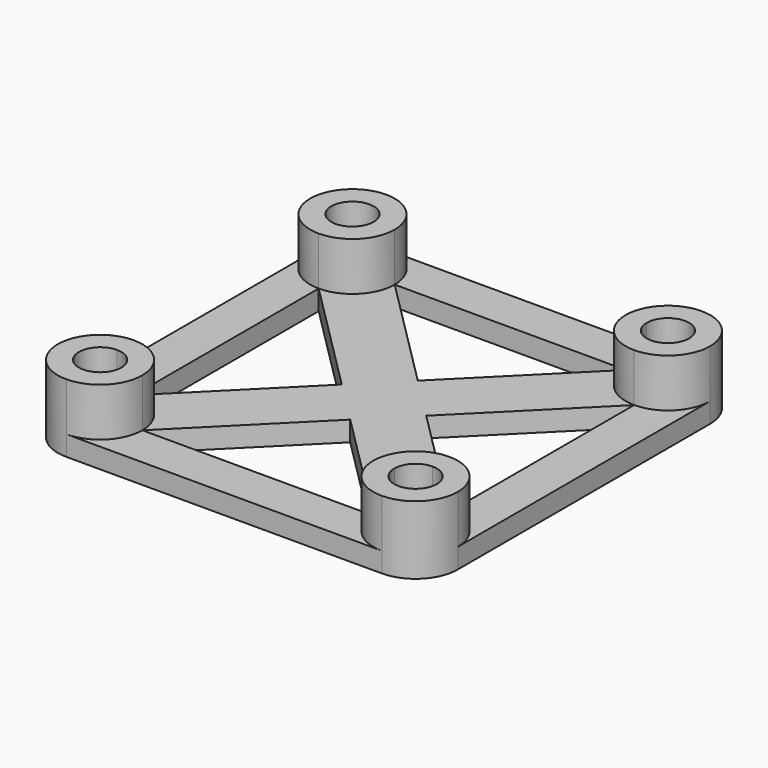
from build123d import *

# Parameters (mm, degrees)
F1_DEPTH = 6.5
F2_DEPTH = 1.9


with BuildPart() as f1:
    # F0 (on Top) → F1 (new body)
    with BuildSketch(Plane.XY):
        with BuildLine():
            Line((-8.899431151, 5.8993360586), (-10.899431151, 5.8993360586))
            ThreePointArc((-10.899431151, 5.8993360586), (-11.4896109869, 4.4745158946), (-12.914431151, 3.8843360586))
            Line((-12.914431151, 3.8843360586), (-12.914431151, 1.8843360586))
            ThreePointArc((-12.914431151, 1.8843360586), (-10.0753974245, 3.0603023322), (-8.899431151, 5.8993360586))
        make_face()
        with BuildLine():
            ThreePointArc((-12.914431151, 3.8843360586), (-14.3392513151, 7.3241562227), (-10.899431151, 5.8993360586))
            Line((-10.899431151, 5.8993360586), (-8.899431151, 5.8993360586))
            ThreePointArc((-8.899431151, 5.8993360586), (-10.0753974245, 8.7383697851), (-12.914431151, 9.9143360586))
            ThreePointArc((-12.914431151, 9.9143360586), (-15.7534648775, 8.7383697851), (-16.929431151, 5.8993360586))
            ThreePointArc((-16.929431151, 5.8993360586), (-15.7534648775, 3.0603023322), (-12.914431151, 1.8843360586))
            Line((-12.914431151, 1.8843360586), (-12.914431151, 3.8843360586))
        make_face()
    extrude(amount=F1_DEPTH)



with BuildPart() as f1b:
    # F0 (on Top) → F1, piece 2 (new body)
    with BuildSketch(Plane.XY):
        with BuildLine():
            ThreePointArc((17.085568849, 9.9143360586), (14.2465351225, 8.7383697851), (13.070568849, 5.8993360586))
            Line((13.070568849, 5.8993360586), (15.070568849, 5.8993360586))
            ThreePointArc((15.070568849, 5.8993360586), (17.085568849, 7.9143360586), (19.100568849, 5.8993360586))
            ThreePointArc((19.100568849, 5.8993360586), (18.5103890131, 4.4745158946), (17.085568849, 3.8843360586))
            Line((17.085568849, 3.8843360586), (17.085568849, 1.8843360586))
            ThreePointArc((17.085568849, 1.8843360586), (19.9246025755, 3.0603023322), (21.100568849, 5.8993360586))
            ThreePointArc((21.100568849, 5.8993360586), (19.9246025755, 8.7383697851), (17.085568849, 9.9143360586))
        make_face()
        with BuildLine():
            Line((15.070568849, 5.8993360586), (13.070568849, 5.8993360586))
            ThreePointArc((13.070568849, 5.8993360586), (14.2465351225, 3.0603023322), (17.085568849, 1.8843360586))
            Line((17.085568849, 1.8843360586), (17.085568849, 3.8843360586))
            ThreePointArc((17.085568849, 3.8843360586), (15.6607486849, 4.4745158946), (15.070568849, 5.8993360586))
        make_face()
    extrude(amount=F1_DEPTH)


with BuildPart() as f1c:
    # F0 (on Top) → F1, piece 3 (new body)
    with BuildSketch(Plane.XY):
        with BuildLine():
            ThreePointArc((21.100568849, -24.1006639414), (19.9246025755, -21.2616302149), (17.085568849, -20.0856639414))
            Line((17.085568849, -20.0856639414), (17.085568849, -22.0856639414))
            ThreePointArc((17.085568849, -22.0856639414), (18.5103890131, -22.6758437773), (19.100568849, -24.1006639414))
            ThreePointArc((19.100568849, -24.1006639414), (17.085568849, -26.1156639414), (15.070568849, -24.1006639414))
            Line((15.070568849, -24.1006639414), (13.070568849, -24.1006639414))
            ThreePointArc((13.070568849, -24.1006639414), (14.2465351225, -26.9396976678), (17.085568849, -28.1156639414))
            ThreePointArc((17.085568849, -28.1156639414), (19.9246025755, -26.9396976678), (21.100568849, -24.1006639414))
        make_face()
        with BuildLine():
            Line((17.085568849, -22.0856639414), (17.085568849, -20.0856639414))
            ThreePointArc((17.085568849, -20.0856639414), (14.2465351225, -21.2616302149), (13.070568849, -24.1006639414))
            Line((13.070568849, -24.1006639414), (15.070568849, -24.1006639414))
            ThreePointArc((15.070568849, -24.1006639414), (15.6607486849, -22.6758437773), (17.085568849, -22.0856639414))
        make_face()
    extrude(amount=F1_DEPTH)


with BuildPart() as f1d:
    # F0 (on Top) → F1, piece 4 (new body)
    with BuildSketch(Plane.XY):
        with BuildLine():
            Line((-12.914431151, -22.0856639414), (-12.914431151, -20.0856639414))
            ThreePointArc((-12.914431151, -20.0856639414), (-15.7534648775, -21.2616302149), (-16.929431151, -24.1006639414))
            ThreePointArc((-16.929431151, -24.1006639414), (-15.7534648775, -26.9396976678), (-12.914431151, -28.1156639414))
            ThreePointArc((-12.914431151, -28.1156639414), (-10.0753974245, -26.9396976678), (-8.899431151, -24.1006639414))
            Line((-8.899431151, -24.1006639414), (-10.899431151, -24.1006639414))
            ThreePointArc((-10.899431151, -24.1006639414), (-14.3392513151, -25.5254841054), (-12.914431151, -22.0856639414))
        make_face()
        with BuildLine():
            ThreePointArc((-8.899431151, -24.1006639414), (-10.0753974245, -21.2616302149), (-12.914431151, -20.0856639414))
            Line((-12.914431151, -20.0856639414), (-12.914431151, -22.0856639414))
            ThreePointArc((-12.914431151, -22.0856639414), (-11.4896109869, -22.6758437773), (-10.899431151, -24.1006639414))
            Line((-10.899431151, -24.1006639414), (-8.899431151, -24.1006639414))
        make_face()
    extrude(amount=F1_DEPTH)


with BuildPart() as f1_1:
    add(f1.part)

    add(f1b.part)  # F2 merges F1b

    add(f1c.part)  # F2 merges F1c

    add(f1d.part)  # F2 merges F1d
    # F0 (on Top) → F2 (join)
    with BuildSketch(Plane.XY):
        with BuildLine():
            ThreePointArc((-12.914431151, 3.8843360586), (-14.3392513151, 7.3241562227), (-10.899431151, 5.8993360586))
            Line((-10.899431151, 5.8993360586), (-8.899431151, 5.8993360586))
            ThreePointArc((-8.899431151, 5.8993360586), (-10.0753974245, 8.7383697851), (-12.914431151, 9.9143360586))
            ThreePointArc((-12.914431151, 9.9143360586), (-15.7534648775, 8.7383697851), (-16.929431151, 5.8993360586))
            ThreePointArc((-16.929431151, 5.8993360586), (-15.7534648775, 3.0603023322), (-12.914431151, 1.8843360586))
            Line((-12.914431151, 1.8843360586), (-12.914431151, 3.8843360586))
        make_face()
        with BuildLine():
            ThreePointArc((-12.914431151, 9.9143360586), (-10.0753974245, 8.7383697851), (-8.899431151, 5.8993360586))
            Line((-8.899431151, 5.8993360586), (13.070568849, 5.8993360586))
            ThreePointArc((13.070568849, 5.8993360586), (14.2465351225, 8.7383697851), (17.085568849, 9.9143360586))
            Line((17.085568849, 9.9143360586), (-12.914431151, 9.9143360586))
        make_face()
        with BuildLine():
            Line((-12.914431151, -20.0856639414), (-12.914431151, 1.8843360586))
            ThreePointArc((-12.914431151, 1.8843360586), (-15.7534648775, 3.0603023322), (-16.929431151, 5.8993360586))
            Line((-16.929431151, 5.8993360586), (-16.929431151, -24.1006639414))
            ThreePointArc((-16.929431151, -24.1006639414), (-15.7534648775, -21.2616302149), (-12.914431151, -20.0856639414))
        make_face()
        with BuildLine():
            ThreePointArc((17.085568849, 9.9143360586), (14.2465351225, 8.7383697851), (13.070568849, 5.8993360586))
            Line((13.070568849, 5.8993360586), (15.070568849, 5.8993360586))
            ThreePointArc((15.070568849, 5.8993360586), (17.085568849, 7.9143360586), (19.100568849, 5.8993360586))
            ThreePointArc((19.100568849, 5.8993360586), (18.5103890131, 4.4745158946), (17.085568849, 3.8843360586))
            Line((17.085568849, 3.8843360586), (17.085568849, 1.8843360586))
            ThreePointArc((17.085568849, 1.8843360586), (19.9246025755, 3.0603023322), (21.100568849, 5.8993360586))
            ThreePointArc((21.100568849, 5.8993360586), (19.9246025755, 8.7383697851), (17.085568849, 9.9143360586))
        make_face()
        with BuildLine():
            Line((-12.914431151, -22.0856639414), (-12.914431151, -20.0856639414))
            ThreePointArc((-12.914431151, -20.0856639414), (-15.7534648775, -21.2616302149), (-16.929431151, -24.1006639414))
            ThreePointArc((-16.929431151, -24.1006639414), (-15.7534648775, -26.9396976678), (-12.914431151, -28.1156639414))
            ThreePointArc((-12.914431151, -28.1156639414), (-10.0753974245, -26.9396976678), (-8.899431151, -24.1006639414))
            Line((-8.899431151, -24.1006639414), (-10.899431151, -24.1006639414))
            ThreePointArc((-10.899431151, -24.1006639414), (-14.3392513151, -25.5254841054), (-12.914431151, -22.0856639414))
        make_face()
        with BuildLine():
            ThreePointArc((21.100568849, 5.8993360586), (19.9246025755, 3.0603023322), (17.085568849, 1.8843360586))
            Line((17.085568849, 1.8843360586), (17.085568849, -20.0856639414))
            ThreePointArc((17.085568849, -20.0856639414), (19.9246025755, -21.2616302149), (21.100568849, -24.1006639414))
            Line((21.100568849, -24.1006639414), (21.100568849, 5.8993360586))
        make_face()
        with BuildLine():
            Line((13.070568849, -24.1006639414), (-8.899431151, -24.1006639414))
            ThreePointArc((-8.899431151, -24.1006639414), (-10.0753974245, -26.9396976678), (-12.914431151, -28.1156639414))
            Line((-12.914431151, -28.1156639414), (17.085568849, -28.1156639414))
            ThreePointArc((17.085568849, -28.1156639414), (14.2465351225, -26.9396976678), (13.070568849, -24.1006639414))
        make_face()
        with BuildLine():
            ThreePointArc((21.100568849, -24.1006639414), (19.9246025755, -21.2616302149), (17.085568849, -20.0856639414))
            Line((17.085568849, -20.0856639414), (17.085568849, -22.0856639414))
            ThreePointArc((17.085568849, -22.0856639414), (18.5103890131, -22.6758437773), (19.100568849, -24.1006639414))
            ThreePointArc((19.100568849, -24.1006639414), (17.085568849, -26.1156639414), (15.070568849, -24.1006639414))
            Line((15.070568849, -24.1006639414), (13.070568849, -24.1006639414))
            ThreePointArc((13.070568849, -24.1006639414), (14.2465351225, -26.9396976678), (17.085568849, -28.1156639414))
            ThreePointArc((17.085568849, -28.1156639414), (19.9246025755, -26.9396976678), (21.100568849, -24.1006639414))
        make_face()
        with BuildLine():
            Line((2.085568849, -5.0856639414), (-8.899431151, 5.8993360586))
            ThreePointArc((-8.899431151, 5.8993360586), (-10.0753974245, 3.0603023322), (-12.914431151, 1.8843360586))
            Line((-12.914431151, 1.8843360586), (-1.929431151, -9.1006639414))
            Line((-1.929431151, -9.1006639414), (2.085568849, -5.0856639414))
        make_face()
        with BuildLine():
            ThreePointArc((17.085568849, 1.8843360586), (14.2465351225, 3.0603023322), (13.070568849, 5.8993360586))
            Line((13.070568849, 5.8993360586), (2.085568849, -5.0856639414))
            Line((2.085568849, -5.0856639414), (6.100568849, -9.1006639414))
            Line((6.100568849, -9.1006639414), (17.085568849, 1.8843360586))
        make_face()
        Polygon((6.100568849, -9.1006639414), (2.085568849, -5.0856639414), (-1.929431151, -9.1006639414), (2.085568849, -13.1156639414), align=None)
        with BuildLine():
            Line((17.085568849, -20.0856639414), (6.100568849, -9.1006639414))
            Line((6.100568849, -9.1006639414), (2.085568849, -13.1156639414))
            Line((2.085568849, -13.1156639414), (13.070568849, -24.1006639414))
            ThreePointArc((13.070568849, -24.1006639414), (14.2465351225, -21.2616302149), (17.085568849, -20.0856639414))
        make_face()
        with BuildLine():
            Line((-1.929431151, -9.1006639414), (-12.914431151, -20.0856639414))
            ThreePointArc((-12.914431151, -20.0856639414), (-10.0753974245, -21.2616302149), (-8.899431151, -24.1006639414))
            Line((-8.899431151, -24.1006639414), (2.085568849, -13.1156639414))
            Line((2.085568849, -13.1156639414), (-1.929431151, -9.1006639414))
        make_face()
    extrude(amount=F2_DEPTH)


solid = f1_1.part
